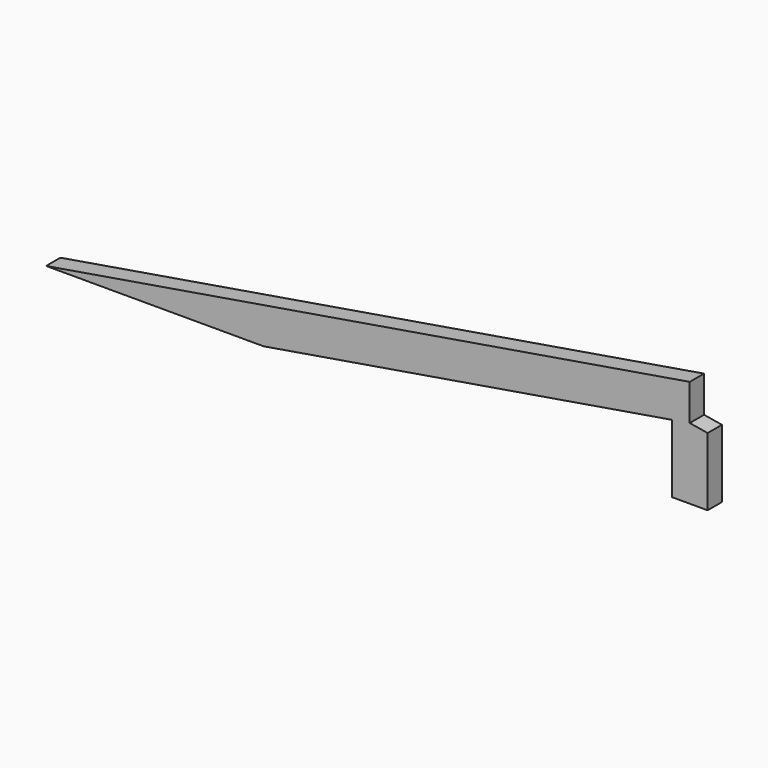
from build123d import *

# Parameters (mm, degrees)
F1_DEPTH = 50.8
F3_DEPTH = 50.8


with BuildPart() as f1:
    # F0 (on Front) → F1 (new body)
    with BuildSketch(Plane.XZ):
        Polygon((0, 304.8), (-1828.8, 0), (-1210.7913269217, 0), (0, 201.798554487), align=None)
    extrude(amount=F1_DEPTH)

    # F2 (on face) → F3 (join)
    with BuildSketch(Plane.XZ.offset(50.8)):
        Polygon((50.8, 193.3318878203), (0, 201.798554487), (-50.8, 193.3318878203), (-50.8, 0), (50.8, 0), align=None)
    extrude(amount=-F3_DEPTH)


solid = f1.part
